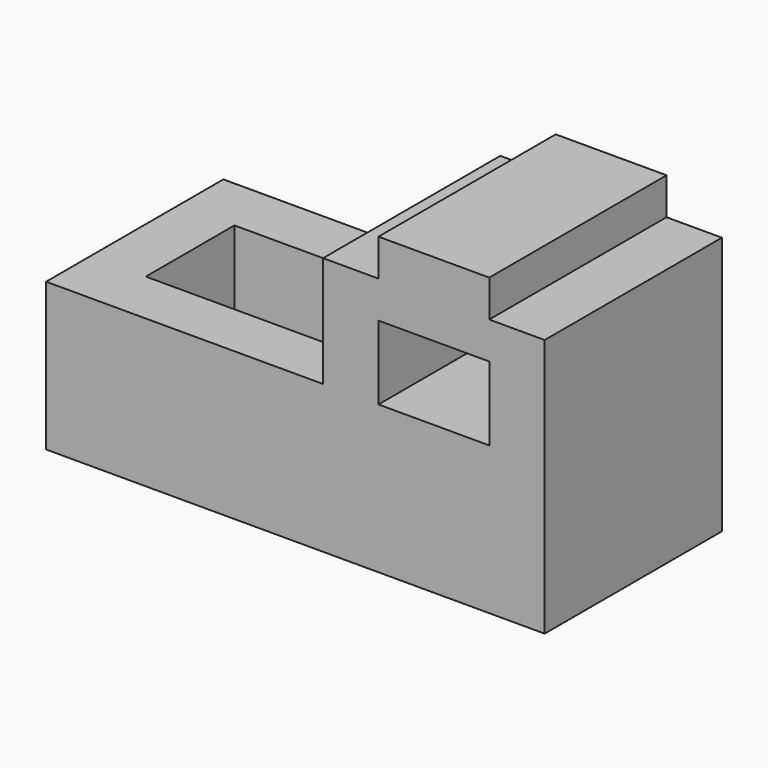
from build123d import *

# Parameters (mm, degrees)
F0_W      = 2743.2
F0_H      = 1625.6
F1_DEPTH  = 1219.2
F2_W      = 1524
F2_H      = 812.8
F3_DEPTH  = 1219.201
F4_W      = 304.8
F4_H      = 203.2
F5_DEPTH  = 1219.201
F6_W      = 304.8
F6_H      = 203.2
F7_DEPTH  = 1219.201
F8_W      = 609.6
F8_H      = 406.4
F9_DEPTH  = 1219.201
F10_W     = 1219.2
F10_H     = 609.6
F11_DEPTH = 609.6


with BuildPart() as f1:
    # F0 (on Front) → F1 (new body)
    with BuildSketch(Plane.XZ):
        with Locations((-1371.6, 812.8)):
            Rectangle(F0_W, F0_H)
    extrude(amount=F1_DEPTH)

    # F2 (on face) → F3 (cut, through all)
    with BuildSketch(Plane.XZ.offset(1219.2)):
        with Locations((-1981.2, 1219.2)):
            Rectangle(F2_W, F2_H)
        with Locations((-1981.2, 1219.2)):
            Rectangle(F2_W, F2_H)
    extrude(amount=-F3_DEPTH, mode=Mode.SUBTRACT)

    # F4 (on face) → F5 (cut, through all)
    with BuildSketch(Plane.XZ.offset(1219.2)):
        with Locations((-1066.8, 1524)):
            Rectangle(F4_W, F4_H)
    extrude(amount=-F5_DEPTH, mode=Mode.SUBTRACT)

    # F6 (on face) → F7 (cut, through all)
    with BuildSketch(Plane.XZ.offset(1219.2)):
        with Locations((-152.4, 1524)):
            Rectangle(F6_W, F6_H)
    extrude(amount=-F7_DEPTH, mode=Mode.SUBTRACT)

    # F8 (on face) → F9 (cut, through all)
    with BuildSketch(Plane.XZ.offset(1219.2)):
        with Locations((-609.6, 1016)):
            Rectangle(F8_W, F8_H)
    extrude(amount=-F9_DEPTH, mode=Mode.SUBTRACT)

    # F10 (on face) → F11 (cut)
    with BuildSketch(Plane.XY.offset(812.8)):
        with Locations((-1828.8, -609.6)):
            Rectangle(F10_W, F10_H)
    extrude(amount=-F11_DEPTH, mode=Mode.SUBTRACT)


solid = f1.part
